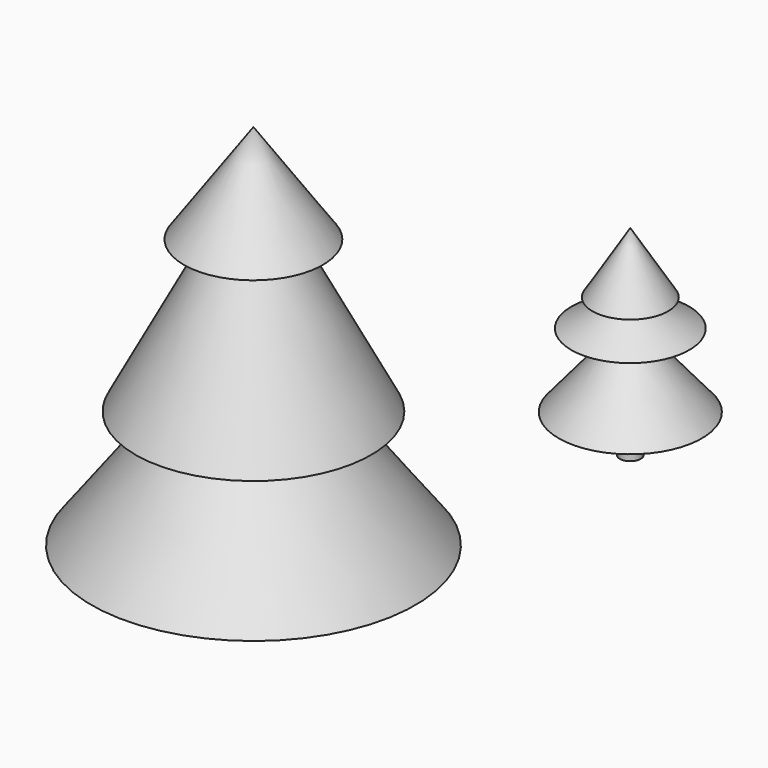
from build123d import *


with BuildPart() as f1:
    # F0 (on Front) → F1 (revolve)
    with BuildSketch(Plane.XZ):
        Polygon((-35.210688, -54.545131), (-35.210688, 55.48827), (-55.959843, 25.936443), (-45.270886, 28.451495), (-70.421375, -19.334441), (-57.217367, -19.334441), (-83.625384, -54.545131), (-48.414696, -54.545131), (-48.414696, -66.491611), (-35.210688, -66.491611), align=None)
    revolve(axis=Axis((-35.210688, 0, 0.47157), (0, 0, 1)))


with BuildPart() as f2:
    # F0 (on Front) → F2 (revolve)
    with BuildSketch(Plane.XZ):
        Polygon((77.397645, 5.816051), (77.397645, 65.548472), (66.079922, 47.314364), (73.625065, 47.314364), (59.792303, 39.140452), (72.367549, 36.625404), (56.019727, 17.133772), (74.253827, 17.133772), (74.253827, 5.816051), align=None)
    revolve(axis=Axis((77.397645, 0, 35.682262), (0, 0, 1)))


solid = Compound([f1.part, f2.part])
